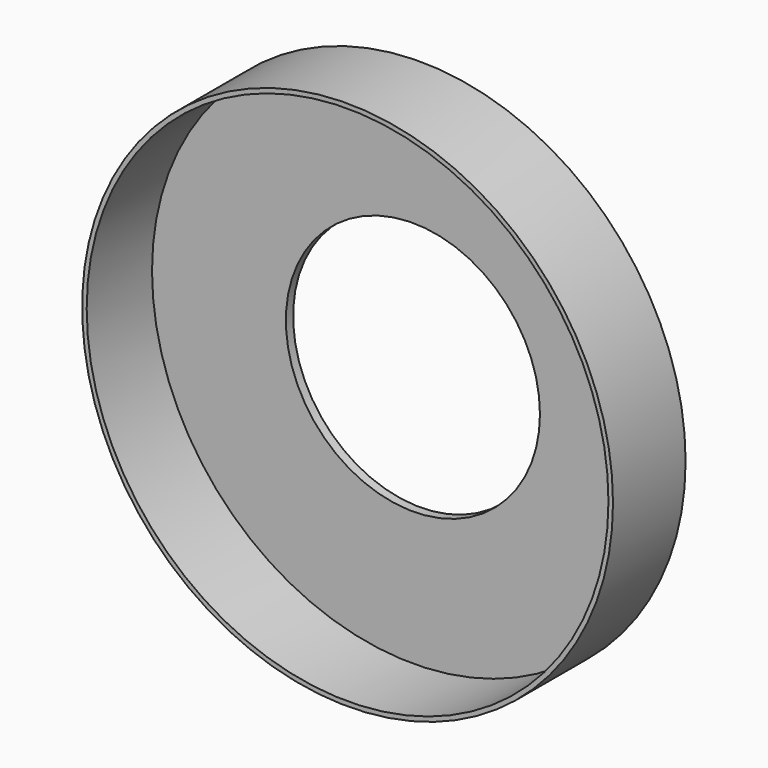
from build123d import *

# Parameters (mm, degrees)
F0_R     = 74.295
F0_R_2   = 73.025
F0_R_3   = 35.56
F1_DEPTH = 2.54
F2_DEPTH = 25.4


with BuildPart() as f1:
    # F0 (on Front) → F1 (new body)
    with BuildSketch(Plane.XZ):
        Circle(F0_R)
        Circle(F0_R_2, mode=Mode.SUBTRACT)
        Circle(F0_R_2)
        Circle(F0_R_3, mode=Mode.SUBTRACT)
    extrude(amount=F1_DEPTH)

    # F0 (on Front) → F2 (join)
    with BuildSketch(Plane.XZ):
        Circle(F0_R)
        Circle(F0_R_2, mode=Mode.SUBTRACT)
    extrude(amount=F2_DEPTH)


solid = f1.part
